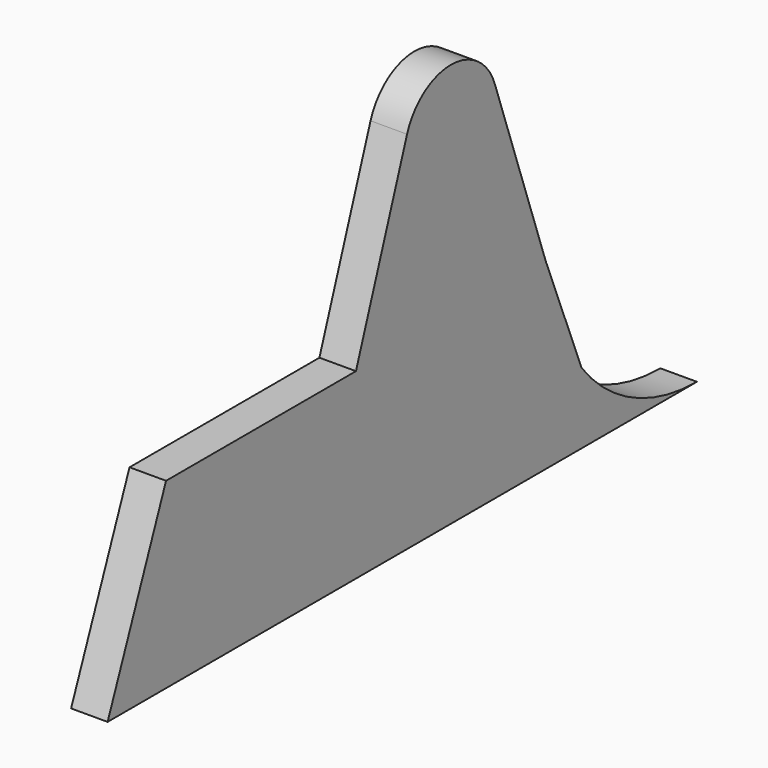
from build123d import *

# Parameters (mm, degrees)
F1_DEPTH = 6.35


with BuildPart() as f1:
    # F0 (on Right) → F1 (new body)
    with BuildSketch(Plane.YZ):
        with BuildLine():
            Line((-53.975, 0), (0, 0))
            Line((0, 0), (53.975, 0))
            Line((53.975, 0), (74.108012, 0))
            ThreePointArc((74.108012, 0), (60.147935, 3.244599), (49.049701, 12.313247))
            Line((49.049701, 12.313247), (41.275, 31.75))
            Line((41.275, 31.75), (30.1625, 63.5))
            ThreePointArc((30.1625, 63.5), (20.6375, 70.257807), (11.1125, 63.5))
            Line((11.1125, 63.5), (0, 31.75))
            Line((0, 31.75), (-41.275, 31.75))
            Line((-41.275, 31.75), (-53.975, 0))
        make_face()
    extrude(amount=F1_DEPTH)


solid = f1.part
